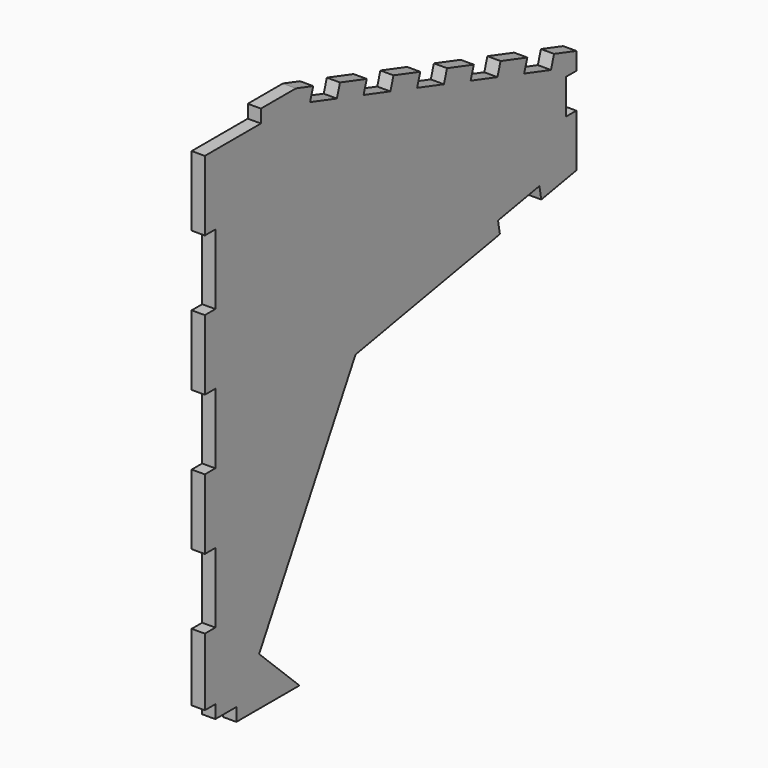
from build123d import *

# Parameters (mm, degrees)
F1_DEPTH = 3


with BuildPart() as f1:
    # F0 (on Right) → F1 (new body)
    with BuildSketch(Plane.YZ):
        Polygon((-28.672605, -45.453316), (-28.672605, -48.453316), (-10.672605, -48.453316), (-22.172605, -37.453316), (5.327395, 11.546684), (46.519161, 19.000432), (45.984979, 21.952491), (57.793213, 24.089219), (58.327395, 21.13716), (68.327395, 22.946684), (68.327395, 34.946684), (65.327395, 34.946684), (65.327395, 42.946684), (68.327395, 42.946684), (68.327395, 46.946684), (61.981752, 48.929698), (61.086927, 46.066258), (53.451087, 48.452458), (54.345912, 51.315898), (46.710072, 53.702098), (45.815247, 50.838658), (38.179407, 53.224858), (39.074232, 56.088298), (31.438392, 58.474497), (30.543567, 55.611058), (22.907727, 57.997257), (23.802552, 60.860697), (16.166713, 63.246897), (15.271888, 60.383457), (7.636048, 62.769657), (8.530873, 65.633097), (0.895033, 68.019297), (0.000208, 65.155857), (-7.635632, 67.542057), (-6.740807, 70.405497), (-11.672605, 71.946684), (-21.672605, 71.946684), (-21.672605, 68.946684), (-37.672605, 68.946684), (-37.672605, 52.946684), (-34.672605, 52.946684), (-34.672605, 36.946684), (-37.672605, 36.946684), (-37.672605, 20.946684), (-34.672605, 20.946684), (-34.672605, 4.946684), (-37.672605, 4.946684), (-37.672605, -11.053316), (-34.672605, -11.053316), (-34.672605, -27.053316), (-37.672605, -27.053316), (-37.672605, -42.453316), (-34.672605, -42.453316), (-34.672605, -45.453316), align=None)
    extrude(amount=F1_DEPTH)


solid = f1.part
